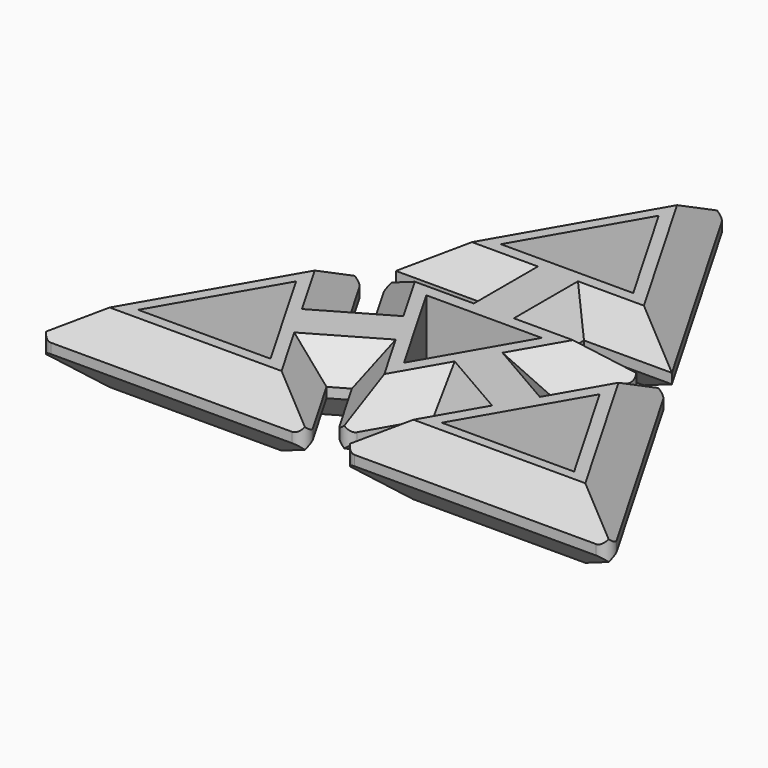
from build123d import *

# Parameters (mm, degrees)
F0_W     = 5
F0_H     = 2
F1_DEPTH = 3.5
F2_SIZE  = 3
F3_R     = 1
F6_DEPTH = 9.2


with BuildPart() as f1:
    # F0 (on Top) → F1 (new body)
    with BuildSketch(Plane.XY):
        Polygon((-4.0418434781, -8.107062112), (0, -15.1077403724), (0, 7.5538701862), (-5, 7.5538701862), (-13.0836869563, 7.5538701862), (-9.0418434781, 0.5531919258), (-6.5418434781, -3.7769350931), align=None)
        Polygon((0, 7.5538701862), (0, -15.1077403724), (4.0418434781, -8.107062112), (6.5418434781, -3.7769350931), (9.0418434781, 0.5531919258), (13.0836869563, 7.5538701862), (5, 7.5538701862), align=None)
        Polygon((-10.7738942857, -0.4468080742), (-8.2738942857, -4.7769350931), (-6.5418434781, -3.7769350931), (-9.0418434781, 0.5531919258), align=None)
        Polygon((-8.2738942857, -4.7769350931), (-5.7738942857, -9.107062112), (-4.0418434781, -8.107062112), (-6.5418434781, -3.7769350931), align=None)
        Polygon((8.2738942857, -4.7769350931), (10.7738942857, -0.4468080742), (9.0418434781, 0.5531919258), (6.5418434781, -3.7769350931), align=None)
        Polygon((4.0418434781, -8.107062112), (5.7738942857, -9.107062112), (8.2738942857, -4.7769350931), (6.5418434781, -3.7769350931), align=None)
        with Locations((2.5, 8.5538701862)):
            Rectangle(F0_W, F0_H)
        with Locations((-2.5, 8.5538701862)):
            Rectangle(F0_W, F0_H)
        Polygon((-28.9386550611, -16.7077402895), (-1.3856406939, -16.7077402895), (-5.7738942857, -9.107062112), (-8.2738942857, -4.7769350931), (-10.7738942857, -0.4468080742), (-15.1621478775, 7.1538701033), align=None)
        Polygon((5.7738942857, -9.107062112), (1.3856406939, -16.7077402895), (28.9386550611, -16.7077402895), (15.1621478775, 7.1538701033), (10.7738942857, -0.4468080742), (8.2738942857, -4.7769350931), align=None)
        Polygon((5, 9.5538701862), (13.7765071836, 9.5538701862), (0, 33.415480579), (0, 9.5538701862), align=None)
        Polygon((0, 9.5538701862), (0, 33.415480579), (-13.7765071836, 9.5538701862), (-5, 9.5538701862), align=None)
    extrude(amount=F1_DEPTH)

    # F2
    f2_edges = [f1.edges().sort_by_distance(p)[0] for p in [
        (-11.062765, 4.053531, 3.5),
        (-9.907869, 0.053192, 3.5),
        (-12.968021, 3.353531, 3.5),
        (-22.050401, -4.776935, 3.5),
        (-15.162148, -16.70774, 3.5),
        (-3.579767, -12.907401, 3.5),
        (-4.907869, -8.607062, 3.5),
        (-2.020922, -11.607401, 3.5),
        (2.020922, -11.607401, 3.5),
        (4.907869, -8.607062, 3.5),
        (3.579767, -12.907401, 3.5),
        (15.162148, -16.70774, 3.5),
        (22.050401, -4.776935, 3.5),
        (12.968021, 3.353531, 3.5),
        (9.907869, 0.053192, 3.5),
        (11.062765, 4.053531, 3.5),
        (9.041843, 7.55387, 3.5),
        (5, 8.55387, 3.5),
        (9.388254, 9.55387, 3.5),
        (6.888254, 21.484675, 3.5),
        (-6.888254, 21.484675, 3.5),
        (-9.388254, 9.55387, 3.5),
        (-5, 8.55387, 3.5),
        (-9.041843, 7.55387, 3.5),
    ]]
    chamfer(f2_edges, length=F2_SIZE)

    # F3
    f3_edges = [f1.edges().sort_by_distance(p)[0] for p in [
        (-28.938655, -16.70774, 0.25),
        (28.938655, -16.70774, 0.25),
        (0, 33.415481, 0.25),
        (-15.162148, 7.15387, 0.25),
        (15.162148, 7.15387, 0.25),
        (-1.385641, -16.70774, 0.25),
        (1.385641, -16.70774, 0.25),
        (-13.083687, 7.55387, 0.25),
        (13.083687, 7.55387, 0.25),
        (0, -15.10774, 0.25),
    ]]
    fillet(f3_edges, radius=F3_R)

    # F4: F1 across plane


with BuildPart() as f1_1:
    add(f1.part)
    add(f1.part.mirror(Plane.XY))

    # F5 (on face) → F6 (cut)
    with BuildSketch(Plane.XY.offset(3.5)):
        Polygon((-6.6051743925, 13.6882647859), (6.6051743925, 13.6882647859), (0, 25.1287624265), align=None)
        Polygon((-21.7569312081, -12.6255113644), (-8.5465824232, -12.6255113644), (-15.1517568156, -1.1850137238), align=None)
        Polygon((8.6276847869, -12.7216648323), (21.8380335718, -12.7216648323), (15.2328591794, -1.2811671917), align=None)
        Polygon((-5.7627101947, 3.3271022821), (0, -6.6542045643), (5.7627101947, 3.3271022821), align=None)
    extrude(amount=-F6_DEPTH, mode=Mode.SUBTRACT)


solid = f1_1.part
